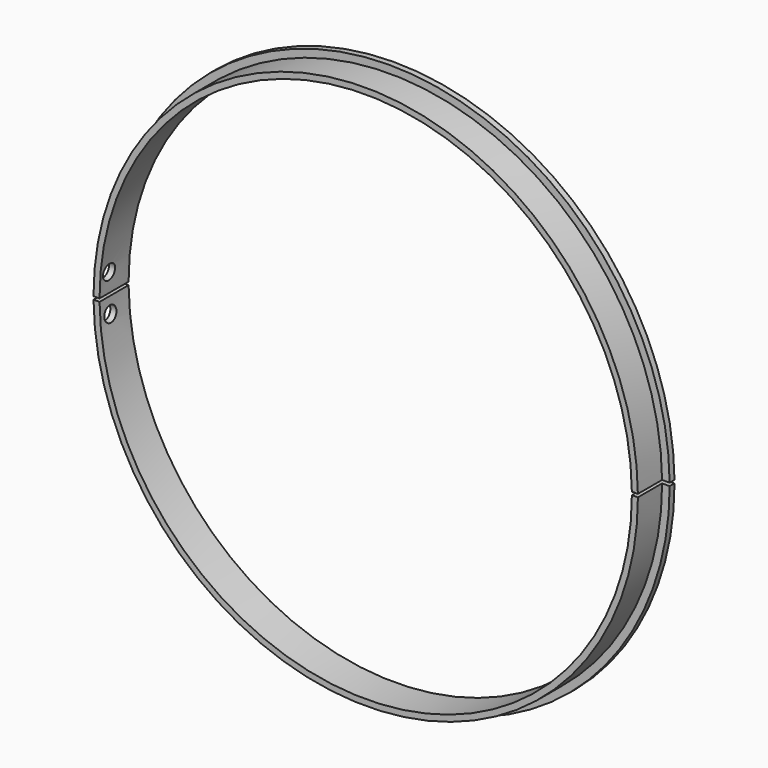
from build123d import *

# Parameters (mm, degrees)
F0_R     = 90
F0_R_2   = 88
F1_DEPTH = 10
F2_R     = 92.5
F2_R_2   = 88
F3_DEPTH = 2
F6_D     = 5
F6_DEPTH = 92.501
F4_W     = 24.3931487203
F4_H     = 1
F4_W_2   = 16.3366869092
F7_DEPTH = 25
F8_DEPTH = 25


with BuildPart() as f1:
    # F0 (on Front) → F1 (new body)
    with BuildSketch(Plane.XZ):
        Circle(F0_R)
        Circle(F0_R_2, mode=Mode.SUBTRACT)
    extrude(amount=F1_DEPTH)

    # F2 (on Front) → F3 (join)
    with BuildSketch(Plane.XZ):
        Circle(F2_R)
        Circle(F2_R_2, mode=Mode.SUBTRACT)
    extrude(amount=-F3_DEPTH)

    # F6 (through all, one way)
    with BuildSketch(Plane.YZ):
        with Locations((-6.3586533647, 6.312994866), (-5.8015659534, -6.1285826857)):
            Circle(F6_D / 2)
    extrude(amount=-F6_DEPTH, mode=Mode.SUBTRACT)

    # F4 (on Front) → F7 (cut)
    with BuildSketch(Plane.XZ):
        with Locations((91.9778235257, 0.5)):
            Rectangle(F4_W, F4_H)
        with Locations((-90.5292220414, -0.5)):
            Rectangle(F4_W_2, F4_H)
    extrude(amount=F7_DEPTH, mode=Mode.SUBTRACT)

    # F4 (on Front) → F8 (cut)
    with BuildSketch(Plane.XZ):
        with Locations((91.9778235257, 0.5)):
            Rectangle(F4_W, F4_H)
        with Locations((-90.5292220414, -0.5)):
            Rectangle(F4_W_2, F4_H)
    extrude(amount=-F8_DEPTH, mode=Mode.SUBTRACT)


solid = f1.part
